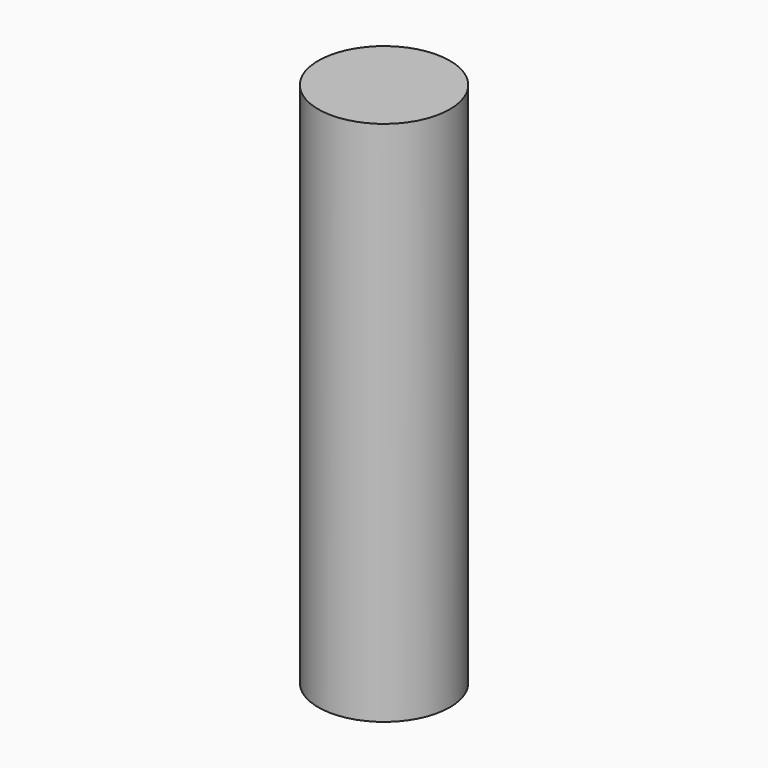
from build123d import *

# Parameters (mm, degrees)
F1_R = 6.35


with BuildPart() as f2:
    # F2: sweep along a path in F0
    with BuildLine(Plane.XZ) as f2_path:
        Line((-14.0857346864, 0), (-14.0857346864, 50.8))
    # F1 (on Top) → F2 (sweep)
    with BuildSketch(Plane.XY):
        with Locations((-14.0857346864, 0)):
            Circle(F1_R)
    sweep(path=f2_path.line)


solid = f2.part
